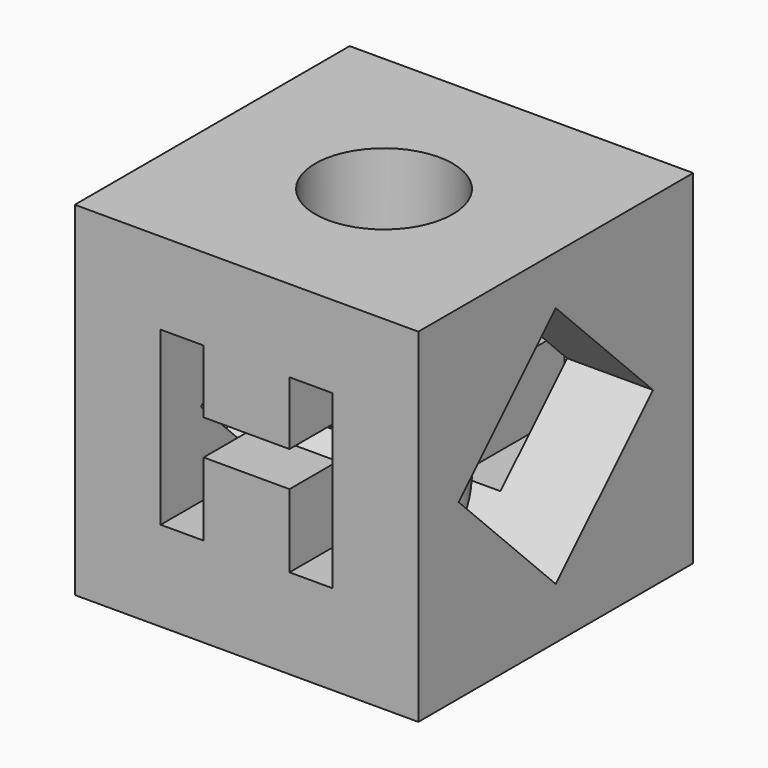
from build123d import *

# Parameters (mm, degrees)
BOX_W           = 5
BOX_H           = 5
BOX_DEPTH       = 5
SKETCH_R        = 1
POCKET_DEPTH    = 7.5
POCKET001_DEPTH = 5
BOX001_W        = 2.5
BOX001_H        = 2.5
BOX001_DEPTH    = 5


with BuildPart() as part:
    # Box → Box (join)
    with BuildSketch(Plane.XY):
        with Locations((2.5, 2.5)):
            Rectangle(BOX_W, BOX_H)
    extrude(amount=BOX_DEPTH)

    # Sketch → Pocket (cut, symmetric)
    with BuildSketch(Plane.XY):
        with Locations((2.5, 2.5)):
            Circle(SKETCH_R)
    extrude(amount=POCKET_DEPTH, both=True, mode=Mode.SUBTRACT)

    # Sketch001 → Pocket001 (cut)
    with BuildSketch(Plane.XZ):
        Polygon((1.25, 3.806445), (1.25, 1.306445), (1.875, 1.306445), (1.875, 2.372529), (3.125, 2.372529), (3.125, 1.306445), (3.75, 1.306445), (3.75, 3.806445), (3.125, 3.806445), (3.125, 2.885704), (1.875, 2.885704), (1.875, 3.806445), align=None)
    extrude(amount=-POCKET001_DEPTH, mode=Mode.SUBTRACT)

    # Box001 → Box001 (cut)
    with BuildSketch(Plane(origin=(0, 2.5, 0.75), x_dir=(0, 0.707107, 0.707107), z_dir=(1, 0, 0))):
        with Locations((1.25, 1.25)):
            Rectangle(BOX001_W, BOX001_H)
    extrude(amount=BOX001_DEPTH, mode=Mode.SUBTRACT)


solid = part.part
